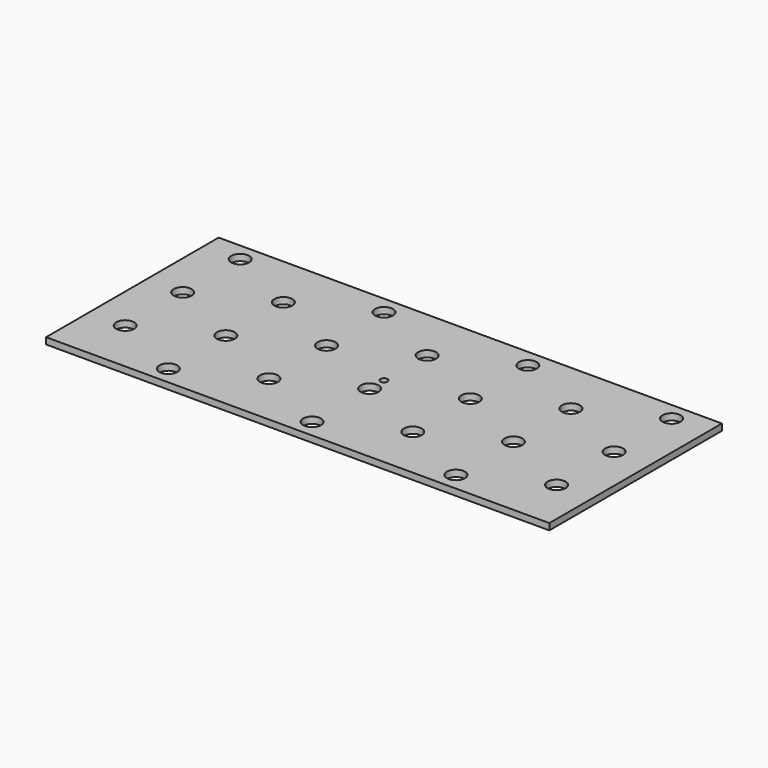
from build123d import *

# Parameters (mm, degrees)
SKETCH_W   = 140
SKETCH_H   = 60
SKETCH_R   = 2.5
SKETCH_R_2 = 1
PAD_DEPTH  = 1.8


with BuildPart() as part:
    # Sketch → Pad (new body)
    with BuildSketch(Plane.XY):
        with Locations((68.5, 39.5)):
            Rectangle(SKETCH_W, SKETCH_H)
        with Locations((28.5, 14.5)):
            Circle(SKETCH_R, mode=Mode.SUBTRACT)
        with Locations((108.5, 14.5)):
            Circle(SKETCH_R, mode=Mode.SUBTRACT)
        with Locations((8.5, 24.5)):
            Circle(SKETCH_R, mode=Mode.SUBTRACT)
        with Locations((48.5, 24.5)):
            Circle(SKETCH_R, mode=Mode.SUBTRACT)
        with Locations((88.5, 24.5)):
            Circle(SKETCH_R, mode=Mode.SUBTRACT)
        with Locations((8.5, 44.5)):
            Circle(SKETCH_R, mode=Mode.SUBTRACT)
        with Locations((48.5, 44.5)):
            Circle(SKETCH_R, mode=Mode.SUBTRACT)
        with Locations((88.5, 44.5)):
            Circle(SKETCH_R, mode=Mode.SUBTRACT)
        with Locations((28.5, 54.5)):
            Circle(SKETCH_R, mode=Mode.SUBTRACT)
        with Locations((68.5, 54.5)):
            Circle(SKETCH_R, mode=Mode.SUBTRACT)
        with Locations((108.5, 54.5)):
            Circle(SKETCH_R, mode=Mode.SUBTRACT)
        with Locations((88.5, 64.5)):
            Circle(SKETCH_R, mode=Mode.SUBTRACT)
        with Locations((48.5, 64.5)):
            Circle(SKETCH_R, mode=Mode.SUBTRACT)
        with Locations((8.5, 64.5)):
            Circle(SKETCH_R, mode=Mode.SUBTRACT)
        with Locations((28.5, 34.5)):
            Circle(SKETCH_R, mode=Mode.SUBTRACT)
        with Locations((68.5, 34.5)):
            Circle(SKETCH_R, mode=Mode.SUBTRACT)
        with Locations((108.5, 34.5)):
            Circle(SKETCH_R, mode=Mode.SUBTRACT)
        with Locations((68.5, 14.5)):
            Circle(SKETCH_R, mode=Mode.SUBTRACT)
        with Locations((128.5, 24.5)):
            Circle(SKETCH_R, mode=Mode.SUBTRACT)
        with Locations((128.5, 44.5)):
            Circle(SKETCH_R, mode=Mode.SUBTRACT)
        with Locations((128.5, 64.5)):
            Circle(SKETCH_R, mode=Mode.SUBTRACT)
        with Locations((68.5, 39.5)):
            Circle(SKETCH_R_2, mode=Mode.SUBTRACT)
    extrude(amount=PAD_DEPTH)


solid = part.part
